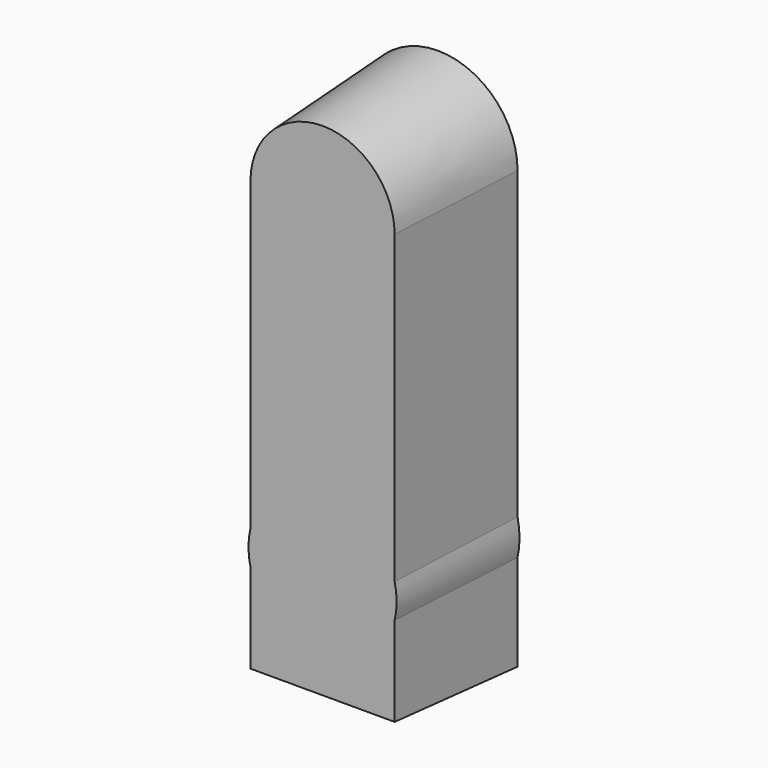
from build123d import *

# Parameters (mm, degrees)
F1_DEPTH = 63.5
F1_TAPER = -3


with BuildPart() as f1:
    # F0 (on Front) → F1 (new body)
    with BuildSketch(Plane.XZ):
        with BuildLine():
            ThreePointArc((19.8774547922, 134.6345158583), (-11.8725452078, 166.3845158583), (-43.6225452078, 134.6345158583))
            Line((-43.6225452078, 134.6345158583), (-11.8725452078, 134.6345158583))
            Line((-11.8725452078, 134.6345158583), (19.8774547922, 134.6345158583))
        make_face()
        with BuildLine():
            Line((-11.8725452078, 134.6345158583), (-43.6225452078, 134.6345158583))
            Line((-43.6225452078, 134.6345158583), (-43.6225452078, 0))
            Line((-43.6225452078, 0), (-43.6225452078, -14.9748003857))
            ThreePointArc((-43.6225452078, -14.9748003857), (-32.119493943, -33.0644353721), (-11.8725452078, -40.1083085439))
            Line((-11.8725452078, -40.1083085439), (-11.8725452078, 134.6345158583))
        make_face()
        with BuildLine():
            Line((19.8774547922, 134.6345158583), (-11.8725452078, 134.6345158583))
            Line((-11.8725452078, 134.6345158583), (-11.8725452078, -40.1083085439))
            ThreePointArc((-11.8725452078, -40.1083085439), (8.3744035274, -33.0644353721), (19.8774547922, -14.9748003857))
            Line((19.8774547922, -14.9748003857), (19.8774547922, 0))
            Line((19.8774547922, 0), (19.8774547922, 134.6345158583))
        make_face()
        with BuildLine():
            Line((-43.6225452078, -14.9748003857), (-43.6225452078, 0))
            ThreePointArc((-43.6225452078, 0), (-44.4934535588, -7.4874001928), (-43.6225452078, -14.9748003857))
        make_face()
        with BuildLine():
            ThreePointArc((19.8774547922, -14.9748003857), (8.3744035274, -33.0644353721), (-11.8725452078, -40.1083085439))
            Line((-11.8725452078, -40.1083085439), (-11.8725452078, -54.3808022202))
            Line((-11.8725452078, -54.3808022202), (19.8774547922, -54.3808022202))
            Line((19.8774547922, -54.3808022202), (19.8774547922, -14.9748003857))
        make_face()
        with BuildLine():
            Line((-11.8725452078, -54.3808022202), (-11.8725452078, -40.1083085439))
            ThreePointArc((-11.8725452078, -40.1083085439), (-32.119493943, -33.0644353721), (-43.6225452078, -14.9748003857))
            Line((-43.6225452078, -14.9748003857), (-43.6225452078, -54.3808022202))
            Line((-43.6225452078, -54.3808022202), (-11.8725452078, -54.3808022202))
        make_face()
        with BuildLine():
            ThreePointArc((19.8774547922, -14.9748003857), (20.7483631433, -7.4874001928), (19.8774547922, 0))
            Line((19.8774547922, 0), (19.8774547922, -14.9748003857))
        make_face()
    extrude(amount=-F1_DEPTH, taper=F1_TAPER)


solid = f1.part
